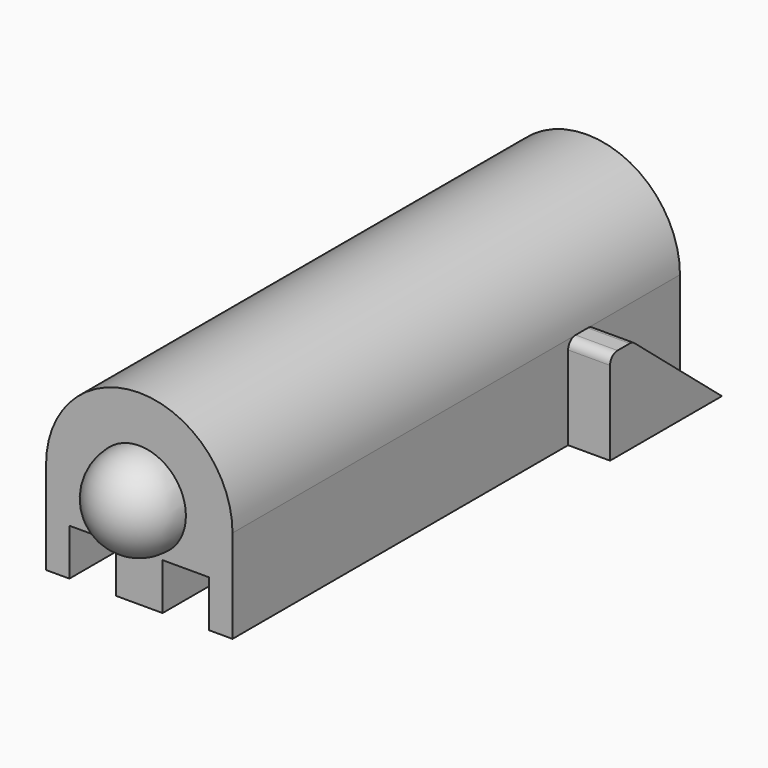
from build123d import *

# Parameters (mm, degrees)
F1_DEPTH = 60
F5_D     = 7
F5_DEPTH = 50
F5_TIP   = 2.1030121666
F7_DEPTH = 4.5
F9_DEPTH = 4.5
F10_R    = 1


with BuildPart() as f1:
    # F0 (on Front) → F1 (new body)
    with BuildSketch(Plane.XZ):
        with BuildLine():
            Line((-10, 10), (-10, 0))
            Line((-10, 0), (-7.5, 0))
            Line((-7.5, 0), (-7.5, 5))
            Line((-7.5, 5), (-2.5, 5))
            Line((-2.5, 5), (-2.5, 0))
            Line((-2.5, 0), (2.5, 0))
            Line((2.5, 0), (2.5, 5))
            Line((2.5, 5), (7.5, 5))
            Line((7.5, 5), (7.5, 0))
            Line((7.5, 0), (10, 0))
            Line((10, 0), (10, 10))
            ThreePointArc((10, 10), (0, 20), (-10, 10))
        make_face()
    extrude(amount=-F1_DEPTH)

    # F2 (on Right) → F3 (revolve)
    with BuildSketch(Plane.YZ):
        with BuildLine():
            Line((0, 5), (0, 15))
            ThreePointArc((0, 15), (-5, 10), (0, 5))
        make_face()
    revolve(axis=Axis((0, 0, 10), (0, 0, -1)))

    # F5
    with Locations(Plane(origin=(0, 60, 0), x_dir=(-1, 0, 0), z_dir=(0, 1, 0))):
        with Locations((0, 10)):
            Hole(F5_D / 2, depth=F5_DEPTH)
            with Locations((0, 0, -(F5_DEPTH + F5_TIP / 2))):  # 118° drill point
                Cone(0, F5_D / 2, F5_TIP, mode=Mode.SUBTRACT)

    # F6 (on face) → F7 (join)
    with BuildSketch(Plane.YZ.offset(10)):
        Polygon((45, 0), (60, 0), (48, 10), (45, 10), align=None)
    extrude(amount=F7_DEPTH)

    # F8 (on face) → F9 (join)
    with BuildSketch(Plane(origin=(-10, 0, 0), x_dir=(0, -1, 0), z_dir=(-1, 0, 0))):
        Polygon((-48, 10), (-60, 0), (-45, 0), (-45, 10), align=None)
    extrude(amount=F9_DEPTH)

    # F10
    f10_edges = [f1.edges().sort_by_distance(p)[0] for p in [
        (12.25, 45, 10),
        (12.25, 48, 10),
        (-12.25, 45, 10),
        (-12.25, 48, 10),
    ]]
    fillet(f10_edges, radius=F10_R)


solid = f1.part
